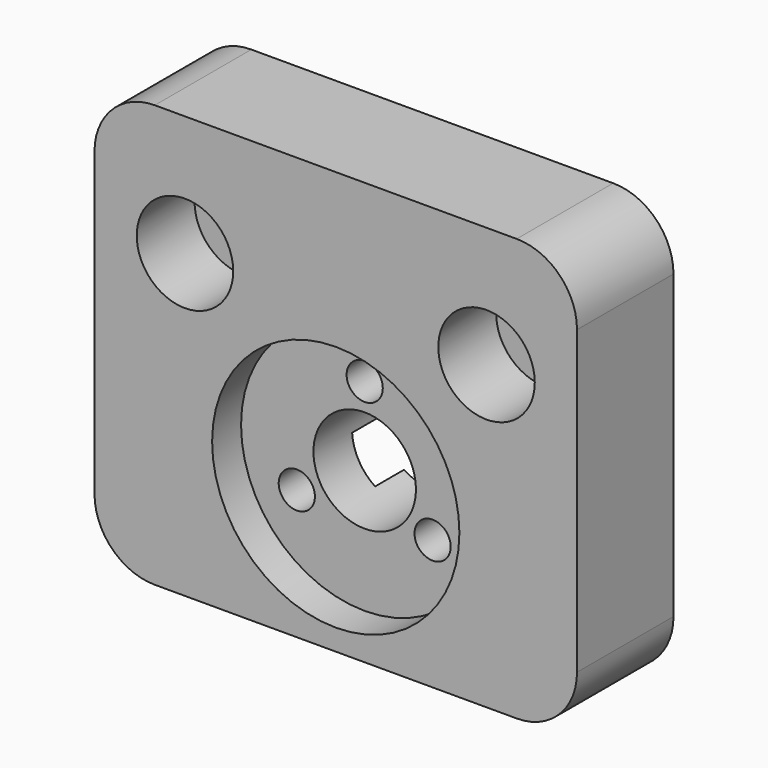
from build123d import *

# Parameters (mm, degrees)
F0_W     = 40
F0_H     = 35
F0_R     = 10.25
F0_R_2   = 4
F0_R_3   = 2.25
F0_R_4   = 1.5
F0_R_5   = 4.25
F1_DEPTH = 10
F2_DEPTH = 6
F3_DEPTH = 3
F5_DEPTH = 3
F6_R     = 5


with BuildPart() as f1:
    # F0 (on Front) → F1 (new body)
    with BuildSketch(Plane.XZ):
        with Locations((0, 5.5)):
            Rectangle(F0_W, F0_H)
        Circle(F0_R, mode=Mode.SUBTRACT)
        with Locations((-12.5, 13)):
            Circle(F0_R_2, mode=Mode.SUBTRACT)
        with Locations((12.5, 13)):
            Circle(F0_R_2, mode=Mode.SUBTRACT)
        with Locations((-12.5, 13)):
            Circle(F0_R_2)
        with Locations((-12.5, 13)):
            Circle(F0_R_3, mode=Mode.SUBTRACT)
        with Locations((12.5, 13)):
            Circle(F0_R_2)
        with Locations((12.5, 13)):
            Circle(F0_R_3, mode=Mode.SUBTRACT)
        Circle(F0_R)
        with Locations((-5.629165, -3.25)):
            Circle(F0_R_4, mode=Mode.SUBTRACT)
        Circle(F0_R_5, mode=Mode.SUBTRACT)
        with Locations((5.629165, -3.25)):
            Circle(F0_R_4, mode=Mode.SUBTRACT)
        with Locations((0, 6.5)):
            Circle(F0_R_4, mode=Mode.SUBTRACT)
    extrude(amount=-F1_DEPTH)

    # F0 (on Front) → F2 (cut)
    with BuildSketch(Plane.XZ):
        with Locations((12.5, 13)):
            Circle(F0_R_2)
        with Locations((12.5, 13)):
            Circle(F0_R_3, mode=Mode.SUBTRACT)
        with Locations((-12.5, 13)):
            Circle(F0_R_2)
        with Locations((-12.5, 13)):
            Circle(F0_R_3, mode=Mode.SUBTRACT)
    extrude(amount=-F2_DEPTH, mode=Mode.SUBTRACT)

    # F0 (on Front) → F3 (cut)
    with BuildSketch(Plane.XZ):
        Circle(F0_R)
        with Locations((-5.629165, -3.25)):
            Circle(F0_R_4, mode=Mode.SUBTRACT)
        Circle(F0_R_5, mode=Mode.SUBTRACT)
        with Locations((5.629165, -3.25)):
            Circle(F0_R_4, mode=Mode.SUBTRACT)
        with Locations((0, 6.5)):
            Circle(F0_R_4, mode=Mode.SUBTRACT)
    extrude(amount=-F3_DEPTH, mode=Mode.SUBTRACT)

    # F4 (on face) → F5 (cut)
    with BuildSketch(Plane(origin=(0, 10, 0), x_dir=(-1, 0, 0), z_dir=(0, 1, 0))):
        with BuildLine():
            Line((1.732051, 9.5), (-1.732051, 9.5))
            Line((-1.732051, 9.5), (-3.464102, 6.5))
            Line((-3.464102, 6.5), (-1.732051, 3.5))
            Line((-1.732051, 3.5), (-2.165064, 2.75))
            ThreePointArc((-2.165064, 2.75), (0, 3.5), (2.165064, 2.75))
            Line((2.165064, 2.75), (1.732051, 3.5))
            Line((1.732051, 3.5), (3.464102, 6.5))
            Line((3.464102, 6.5), (1.732051, 9.5))
        make_face()
        with BuildLine():
            Line((-3.464102, 0.5), (-2.165064, 2.75))
            ThreePointArc((-2.165064, 2.75), (-3.031089, 1.75), (-3.464102, 0.5))
        make_face()
        with BuildLine():
            ThreePointArc((3.464102, 0.5), (3.031089, 1.75), (2.165064, 2.75))
            Line((2.165064, 2.75), (3.464102, 0.5))
        make_face()
        with BuildLine():
            ThreePointArc((-1.299038, -3.25), (-3.031089, -1.75), (-3.464102, 0.5))
            Line((-3.464102, 0.5), (-3.897114, -0.25))
            Line((-3.897114, -0.25), (-7.361216, -0.25))
            Line((-7.361216, -0.25), (-9.093267, -3.25))
            Line((-9.093267, -3.25), (-7.361216, -6.25))
            Line((-7.361216, -6.25), (-3.897114, -6.25))
            Line((-3.897114, -6.25), (-2.165064, -3.25))
            Line((-2.165064, -3.25), (-1.299038, -3.25))
        make_face()
        with BuildLine():
            Line((3.897114, -0.25), (3.464102, 0.5))
            ThreePointArc((3.464102, 0.5), (3.491014, 0.250644), (3.5, 0))
            ThreePointArc((3.5, 0), (2.897985, -1.962571), (1.299038, -3.25))
            Line((1.299038, -3.25), (2.165064, -3.25))
            Line((2.165064, -3.25), (3.897114, -6.25))
            Line((3.897114, -6.25), (7.361216, -6.25))
            Line((7.361216, -6.25), (9.093267, -3.25))
            Line((9.093267, -3.25), (7.361216, -0.25))
            Line((7.361216, -0.25), (3.897114, -0.25))
        make_face()
        with BuildLine():
            Line((1.299038, -3.25), (-1.299038, -3.25))
            ThreePointArc((-1.299038, -3.25), (0, -3.5), (1.299038, -3.25))
        make_face()
    extrude(amount=-F5_DEPTH, mode=Mode.SUBTRACT)

    # F6
    f6_edges = [f1.edges().sort_by_distance(p)[0] for p in [
        (-20, 5, 23),
        (20, 5, 23),
        (20, 5, -12),
        (-20, 5, -12),
    ]]
    fillet(f6_edges, radius=F6_R)


solid = f1.part
